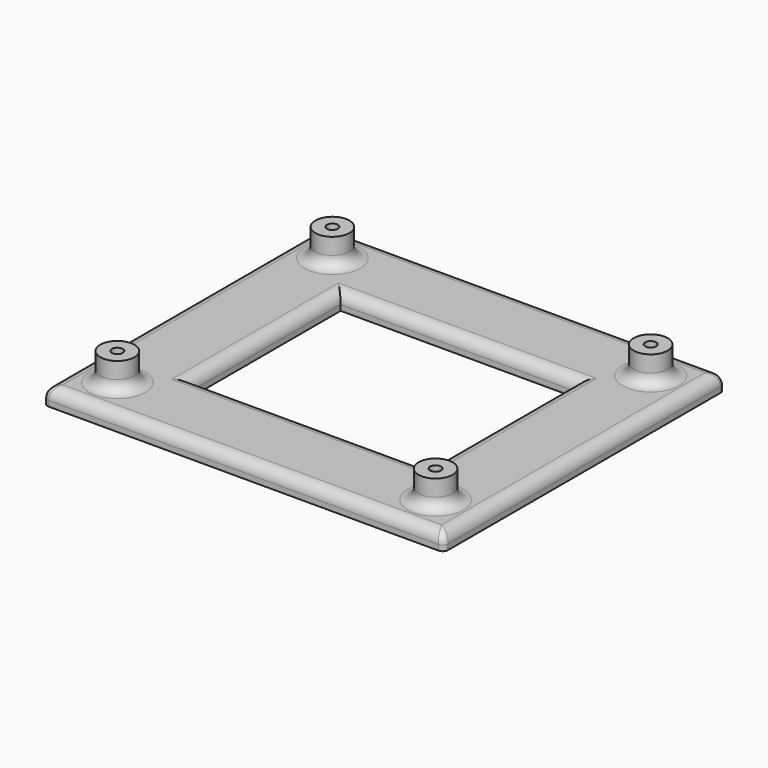
from build123d import *

# Parameters (mm, degrees)
SKETCH001_R        = 3.1
SKETCH001_R_2      = 1
PAD_DEPTH          = 5
SKETCH_W           = 73
SKETCH_H           = 64
SKETCH_W_2         = 43
SKETCH_H_2         = 34
PAD001_DEPTH       = 3
POLARPATTERN_COUNT = 2
FILLET_R           = 2
FILLET001_R        = 1
FILLET002_R        = 1
FILLET003_R        = 1
FILLET004_R        = 1


with BuildPart() as part:
    # Sketch001 → Pad (new body)
    with BuildSketch(Plane.XY.offset(3)):
        with Locations((-29, 24.5)):
            Circle(SKETCH001_R)
        with Locations((-29, 24.5)):
            Circle(SKETCH001_R_2, mode=Mode.SUBTRACT)
    pad = extrude(amount=PAD_DEPTH)

    # Sketch → Pad001 (join)
    with BuildSketch(Plane.XY):
        Rectangle(SKETCH_W, SKETCH_H)
        Rectangle(SKETCH_W_2, SKETCH_H_2, mode=Mode.SUBTRACT)
    extrude(amount=PAD001_DEPTH)

    # Mirrored: Pad across Sketch001 V_Axis
    add(pad.mirror(Plane(origin=(0, 0, 3), x_dir=(0, 0, 1), z_dir=(1, 0, 0))))

    # PolarPattern: Pad ×2 about axis
    polarpattern_axis = Axis((0, 0, 3), (0, 0, 1))
    for i in range(1, POLARPATTERN_COUNT):
        add(pad.rotate(polarpattern_axis, i * 360 / POLARPATTERN_COUNT))

    # Mirrored001: Pad across XZ
    add(pad.mirror(Plane.XZ))

    # Fillet
    fillet_edges = [part.edges().sort_by_distance(p)[0] for p in [
        (0, 32, 3),
        (-36.5, 0, 3),
        (36.5, 0, 3),
        (0, -32, 3),
        (-32.1, -24.5, 3),
        (32.1, -24.5, 3),
        (-32.1, 24.5, 3),
        (0, 17, 3),
        (-21.5, 0, 3),
        (21.5, 0, 3),
        (0, -17, 3),
        (32.1, 24.5, 3),
    ]]
    fillet(fillet_edges, radius=FILLET_R)

    # Fillet001
    fillet001_edges = [part.edges().sort_by_distance(p)[0] for p in [
        (-36.5, -32, 0.5),
    ]]
    fillet(fillet001_edges, radius=FILLET001_R)

    # Fillet002
    fillet002_edges = [part.edges().sort_by_distance(p)[0] for p in [
        (-36.5, 32, 0.5),
    ]]
    fillet(fillet002_edges, radius=FILLET002_R)

    # Fillet003
    fillet003_edges = [part.edges().sort_by_distance(p)[0] for p in [
        (36.5, 32, 0.5),
    ]]
    fillet(fillet003_edges, radius=FILLET003_R)

    # Fillet004
    fillet004_edges = [part.edges().sort_by_distance(p)[0] for p in [
        (36.5, -32, 0.5),
    ]]
    fillet(fillet004_edges, radius=FILLET004_R)


solid = part.part
